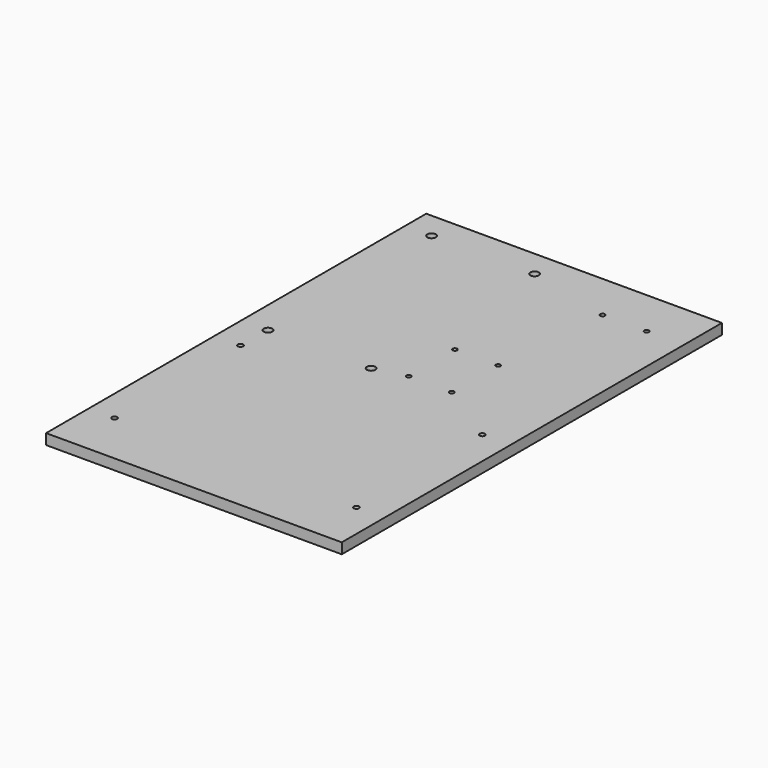
from build123d import *

# Parameters (mm, degrees)
F0_R     = 1.25
F0_W     = 26
F0_H     = 35.5
F0_R_2   = 2
F0_R_3   = 1.05
F0_W_2   = 15
F0_H_2   = 10
F0_R_4   = 1.1
F0_W_3   = 10
F0_H_3   = 20
F0_W_4   = 45
F1_DEPTH = 5


with BuildPart() as f1:
    # F0 (on Top) → F1 (new body)
    with BuildSketch(Plane.XY):
        Polygon((33.40298, -104.292824), (33.40298, -43.292824), (33.40298, -23.292824), (-87.59702, -23.292824), (-87.59702, -104.292824), align=None)
        with Locations((-84.34702, -101.042824)):
            Circle(F0_R, mode=Mode.SUBTRACT)
        with Locations((-84.34702, -26.542824)):
            Circle(F0_R, mode=Mode.SUBTRACT)
        with Locations((30.15298, -101.042824)):
            Circle(F0_R, mode=Mode.SUBTRACT)
        with Locations((30.15298, -26.542824)):
            Circle(F0_R, mode=Mode.SUBTRACT)
        Polygon((-81.59702, 98.707176), (-96.59702, 98.707176), (-96.59702, -126.292824), (43.40298, -126.292824), (43.40298, -43.292824), (33.40298, -43.292824), (33.40298, -104.292824), (-87.59702, -104.292824), (-87.59702, -23.292824), (33.40298, -23.292824), (43.40298, -23.292824), (43.40298, 98.707176), (-36.59702, 98.707176), (-36.59702, 88.707176), (-35.19702, 88.707176), (-32.59702, 88.707176), (-32.59702, 86.107176), (-32.59702, -10.692824), (-32.59702, -13.292824), (-35.19702, -13.292824), (-83.99702, -13.292824), (-86.59702, -13.292824), (-86.59702, -10.692824), (-86.59702, 86.107176), (-86.59702, 86.507176), (-86.59702, 88.707176), (-84.39702, 88.707176), (-83.99702, 88.707176), (-81.59702, 88.707176), align=None)
        Polygon((-23.161016, -9.792824), (-23.161016, 23.207176), (-17.161016, 23.207176), (-17.161016, 33.207176), (-2.161016, 33.207176), (-2.161016, 23.207176), (2.838984, 23.207176), (2.838984, -9.792824), align=None, mode=Mode.SUBTRACT)
        with Locations((15.40298, 60.957176)):
            Rectangle(F0_W, F0_H, mode=Mode.SUBTRACT)
        Polygon((-36.59702, 88.707176), (-81.59702, 88.707176), (-83.99702, 88.707176), (-84.39702, 88.707176), (-86.59702, 88.707176), (-86.59702, 86.507176), (-86.59702, 86.107176), (-86.59702, -10.692824), (-86.59702, -13.292824), (-83.99702, -13.292824), (-35.19702, -13.292824), (-32.59702, -13.292824), (-32.59702, -10.692824), (-32.59702, 86.107176), (-32.59702, 88.707176), (-35.19702, 88.707176), align=None)
        with Locations((-83.99702, -10.692824)):
            Circle(F0_R_2, mode=Mode.SUBTRACT)
        with Locations((-35.19702, -10.692824)):
            Circle(F0_R_2, mode=Mode.SUBTRACT)
        with Locations((-83.99702, 86.107176)):
            Circle(F0_R_2, mode=Mode.SUBTRACT)
        with Locations((-35.19702, 86.107176)):
            Circle(F0_R_2, mode=Mode.SUBTRACT)
        Polygon((-17.161016, 23.207176), (-23.161016, 23.207176), (-23.161016, -9.792824), (2.838984, -9.792824), (2.838984, 23.207176), (-2.161016, 23.207176), align=None)
        with Locations((-20.361016, -6.992824)):
            Circle(F0_R_3, mode=Mode.SUBTRACT)
        with Locations((0.038984, -6.992824)):
            Circle(F0_R_3, mode=Mode.SUBTRACT)
        with Locations((-20.361016, 20.407176)):
            Circle(F0_R_3, mode=Mode.SUBTRACT)
        with Locations((0.038984, 20.407176)):
            Circle(F0_R_3, mode=Mode.SUBTRACT)
        with Locations((-9.661016, 28.207176)):
            Rectangle(F0_W_2, F0_H_2)
        with Locations((15.40298, 60.957176)):
            Rectangle(F0_W, F0_H)
        with Locations((5.00298, 76.107176)):
            Circle(F0_R_4, mode=Mode.SUBTRACT)
        with Locations((25.80298, 76.107176)):
            Circle(F0_R_4, mode=Mode.SUBTRACT)
        with Locations((38.40298, -33.292824)):
            Rectangle(F0_W_3, F0_H_3)
        with Locations((-59.09702, 93.707176)):
            Rectangle(F0_W_4, F0_H_2)
    extrude(amount=F1_DEPTH)


solid = f1.part
